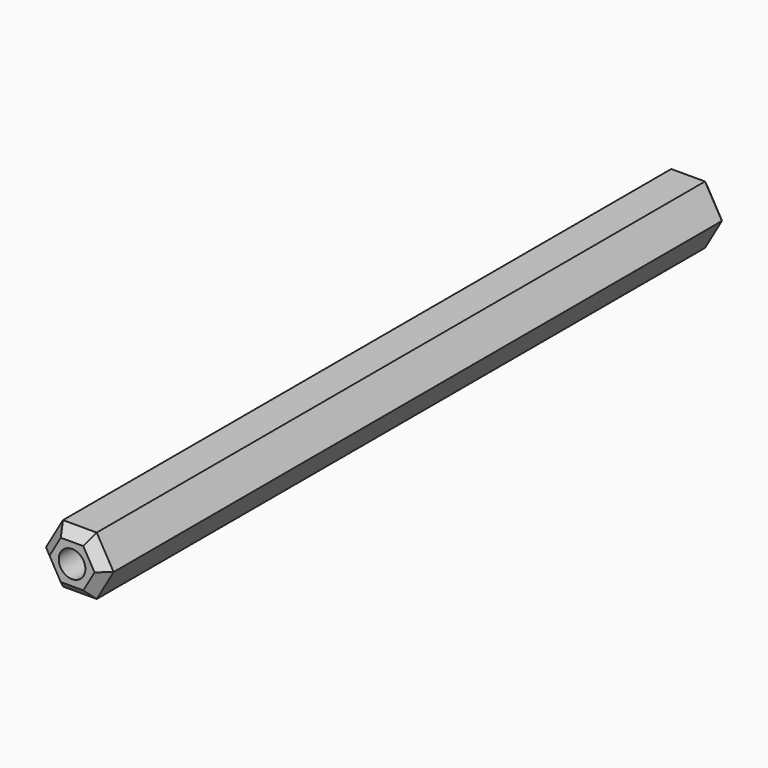
from build123d import *

# Parameters (mm, degrees)
F1_R     = 2.05
F2_DEPTH = 60
F3_DEPTH = 45
F4_SIZE  = 1.5


with BuildPart() as f2:
    # F1 (on Front) → F2 (new body, symmetric)
    with BuildSketch(Plane.XZ):
        Polygon((-2.5980762114, -4.5), (2.5980762114, -4.5), (5.1961524227, 0), (2.5980762114, 4.5), (-2.5980762114, 4.5), (-5.1961524227, 0), align=None)
        Circle(F1_R, mode=Mode.SUBTRACT)
    extrude(amount=F2_DEPTH, both=True)

    # F1 (on Front) → F3 (join, symmetric)
    with BuildSketch(Plane.XZ):
        Circle(F1_R)
    extrude(amount=F3_DEPTH, both=True)

    # F4
    f4_edges = [f2.edges().sort_by_distance(p)[0] for p in [
        (3.897114, -60, 2.25),
        (0, -60, 4.5),
        (-3.897114, -60, 2.25),
        (-3.897114, -60, -2.25),
        (0, -60, -4.5),
        (3.897114, -60, -2.25),
        (3.897114, 60, 2.25),
        (0, 60, 4.5),
        (-3.897114, 60, 2.25),
        (-3.897114, 60, -2.25),
        (0, 60, -4.5),
        (3.897114, 60, -2.25),
    ]]
    chamfer(f4_edges, length=F4_SIZE)


solid = f2.part
